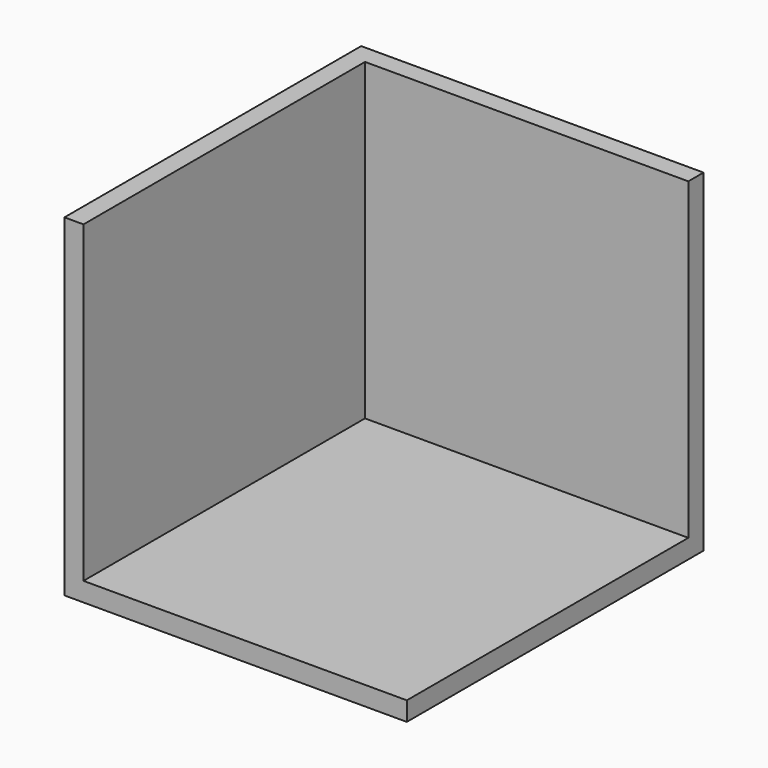
from build123d import *

# Parameters (mm, degrees)
F0_W     = 3600
F0_H     = 3900
F1_DEPTH = 3500
F2_T     = -200


with BuildPart() as f1:
    # F0 (on Top) → F1 (new body)
    with BuildSketch(Plane.XY):
        Rectangle(F0_W, F0_H)
    extrude(amount=F1_DEPTH)

    # F2
    f2_openings = [f1.faces().sort_by_distance(p)[0] for p in [
        (0, 0, 3500),
        (1800, 0, 1750),
        (0, -1950, 1750),
    ]]
    offset(amount=F2_T, openings=f2_openings)


solid = f1.part
